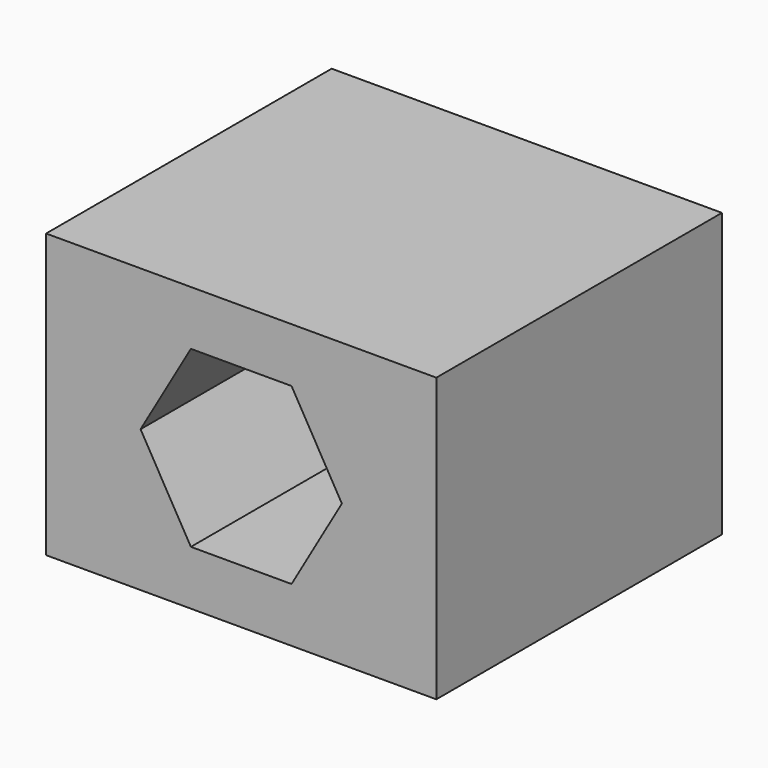
from build123d import *

# Parameters (mm, degrees)
F0_W     = 83.305214
F0_H     = 60.44998
F1_DEPTH = 76.2


with BuildPart() as f1:
    # F0 (on Front) → F1 (new body)
    with BuildSketch(Plane.XZ):
        Rectangle(F0_W, F0_H)
        Polygon((10.742642, 18.606802), (21.485284, 0), (10.742642, -18.606802), (-10.742642, -18.606802), (-21.485284, 0), (-10.742642, 18.606802), align=None, mode=Mode.SUBTRACT)
    extrude(amount=F1_DEPTH)


solid = f1.part
